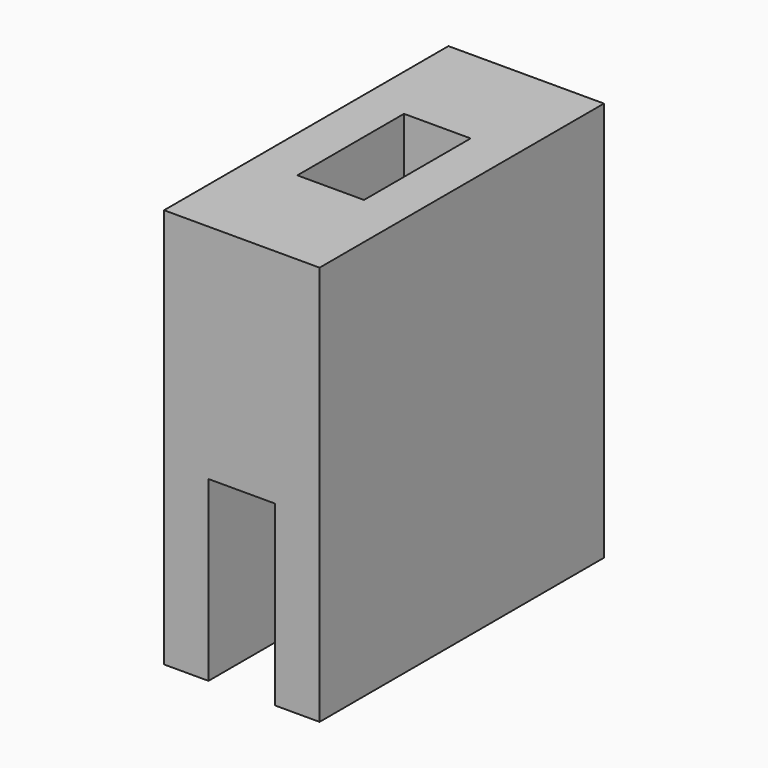
from build123d import *

# Parameters (mm, degrees)
BOX002_W     = 3
BOX002_H     = 16
BOX002_DEPTH = 8
BOX001_W     = 3
BOX001_H     = 6
BOX001_DEPTH = 18
BOX_W        = 7
BOX_H        = 16
BOX_DEPTH    = 18


with BuildPart() as cube002:
    # Box002 → Box002 (new body)
    with BuildSketch(Plane(origin=(2, 0, 0), x_dir=(1, 0, 0), z_dir=(0, 0, 1))):
        with Locations((1.5, 8)):
            Rectangle(BOX002_W, BOX002_H)
    extrude(amount=BOX002_DEPTH)


with BuildPart() as cube001:
    # Box001 → Box001 (new body)
    with BuildSketch(Plane(origin=(2, 5, 0), x_dir=(1, 0, 0), z_dir=(0, 0, 1))):
        with Locations((1.5, 3)):
            Rectangle(BOX001_W, BOX001_H)
    extrude(amount=BOX001_DEPTH)


with BuildPart() as cut001:
    # Box → Box (new body)
    with BuildSketch(Plane.XY):
        with Locations((3.5, 8)):
            Rectangle(BOX_W, BOX_H)
    extrude(amount=BOX_DEPTH)

    # Cut: cut Cube001
    add(cube001.part, mode=Mode.SUBTRACT)

    # Cut001: cut Cube002
    add(cube002.part, mode=Mode.SUBTRACT)


solid = cut001.part
